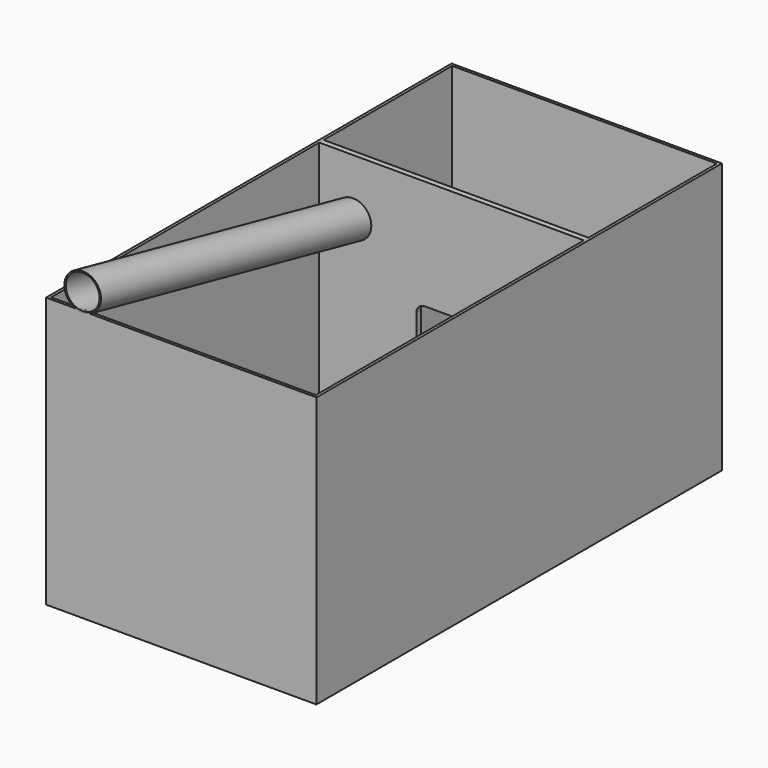
from build123d import *

# Parameters (mm, degrees)
F0_W     = 4572
F0_H     = 2438.4
F1_DEPTH = 2438.4
F2_T     = -25.4
F3_W     = 50.8
F3_H     = 2413
F4_DEPTH = 2387.6
F5_W     = 635
F5_H     = 457.2
F6_DEPTH = 76.2
F7_R     = 76.2
F10_R    = 165.1
F10_R_2  = 152.4


with BuildPart() as f1:
    # F0 (on Right) → F1 (new body)
    with BuildSketch(Plane.YZ):
        with Locations((2286, 1219.2)):
            Rectangle(F0_W, F0_H)
    extrude(amount=F1_DEPTH)

    # F2
    f2_openings = [f1.faces().sort_by_distance(p)[0] for p in [
        (1219.2, 2286, 2438.4),
    ]]
    offset(amount=F2_T, openings=f2_openings)


with BuildPart() as f4:
    # F3 (on face) → F4 (new body, through all)
    with BuildSketch(Plane(origin=(2413, 0, 0), x_dir=(0, -1, 0), z_dir=(-1, 0, 0))):
        with Locations((-3073.4, 1231.9)):
            Rectangle(F3_W, F3_H)
    extrude(amount=F4_DEPTH)

    # F5 (on face) → F6 (cut)
    with BuildSketch(Plane.XZ.offset(-3048)):
        with Locations((1219.1999999997, 1219.2)):
            Rectangle(F5_W, F5_H)
    extrude(amount=-F6_DEPTH, mode=Mode.SUBTRACT)

    # F7
    f7_edges = [f4.edges().sort_by_distance(p)[0] for p in [
        (901.7, 3073.4, 990.6),
        (1536.7, 3073.4, 990.6),
        (901.7, 3073.4, 1447.8),
        (1536.7, 3073.4, 1447.8),
    ]]
    fillet(f7_edges, radius=F7_R)


with BuildPart() as f11:
    # F11: sweep along a path in F9
    with BuildLine(Plane.YZ.offset(330.2)) as f11_path:
        Line((3048, 1930.4), (0, 2590.8))
    # F10 (on face) → F11 (sweep)
    with BuildSketch(Plane.XZ.offset(-3048)):
        with Locations((330.2, 1930.4)):
            Circle(F10_R)
        with Locations((330.2, 1930.4)):
            Circle(F10_R_2, mode=Mode.SUBTRACT)
    sweep(path=f11_path.line)


solid = Compound([f1.part, f4.part, f11.part])
